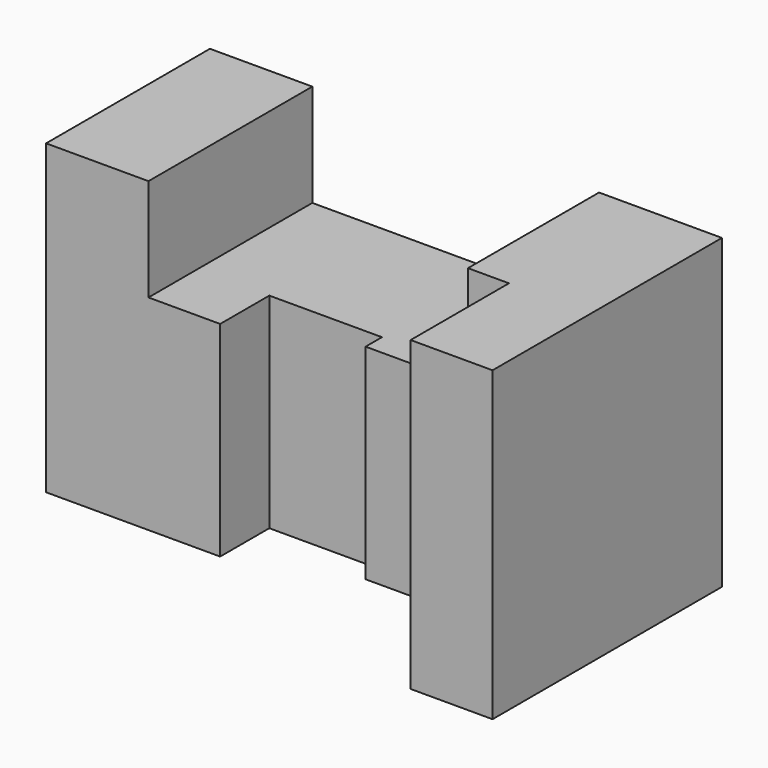
from build123d import *

# Parameters (mm, degrees)
F0_W     = 250
F0_H     = 150
F1_DEPTH = 140
F2_W     = 140
F2_H     = 50
F3_DEPTH = 140.001
F4_W     = 210
F4_H     = 40
F5_DEPTH = 150.001
F6_W     = 55
F6_H     = 30
F7_DEPTH = 100.001
F8_W     = 70
F8_H     = 20
F9_DEPTH = 150.001


with BuildPart() as f1:
    # F0 (on Front) → F1 (new body)
    with BuildSketch(Plane.XZ):
        with Locations((125, 75)):
            Rectangle(F0_W, F0_H)
    extrude(amount=-F1_DEPTH)

    # F2 (on face) → F3 (cut, through all)
    with BuildSketch(Plane.XZ):
        with Locations((120, 125)):
            Rectangle(F2_W, F2_H)
    extrude(amount=-F3_DEPTH, mode=Mode.SUBTRACT)

    # F4 (on face) → F5 (cut, through all)
    with BuildSketch(Plane(origin=(0, 0, 0), x_dir=(1, 0, 0), z_dir=(0, 0, -1))):
        with Locations((105, -20)):
            Rectangle(F4_W, F4_H)
    extrude(amount=-F5_DEPTH, mode=Mode.SUBTRACT)

    # F6 (on face) → F7 (cut, through all)
    with BuildSketch(Plane.XY.offset(100)):
        with Locations((112.5, 55)):
            Rectangle(F6_W, F6_H)
    extrude(amount=-F7_DEPTH, mode=Mode.SUBTRACT)

    # F8 (on face) → F9 (cut, through all)
    with BuildSketch(Plane(origin=(0, 0, 0), x_dir=(1, 0, 0), z_dir=(0, 0, -1))):
        with Locations((175, -50)):
            Rectangle(F8_W, F8_H)
    extrude(amount=-F9_DEPTH, mode=Mode.SUBTRACT)


solid = f1.part
